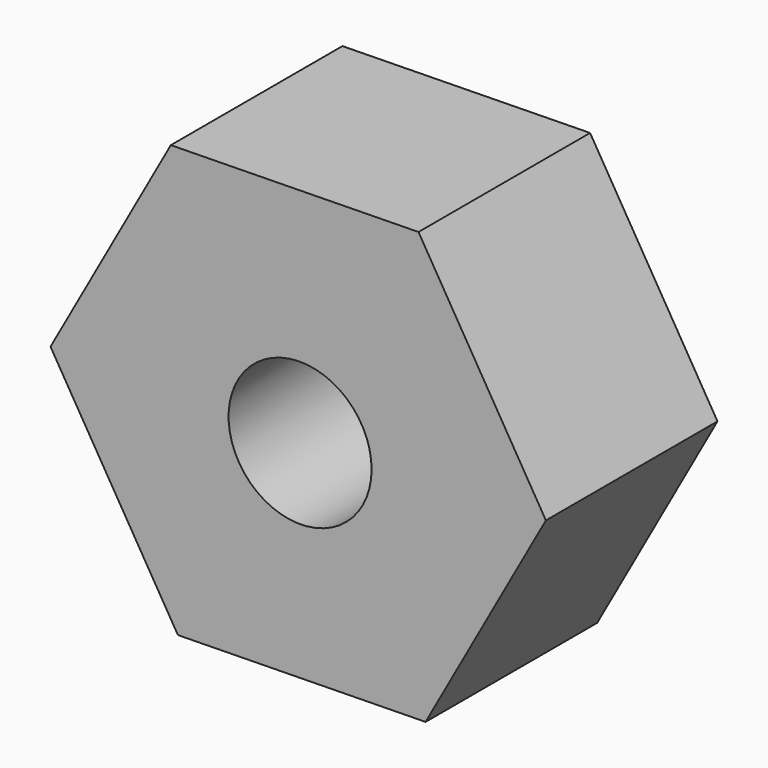
from build123d import *

# Parameters (mm, degrees)
F2_DEPTH = 4.7625
F1_R     = 1.5875
F3_DEPTH = 4.7752


with BuildPart() as f2:
    # F0 (on Front) → F2 (new body)
    with BuildSketch(Plane.XZ):
        Polygon((-4.222844, 8.699483), (-1.551803, 13.507357), (-4.380023, 18.224483), (-9.879285, 18.133736), (-12.550326, 13.325862), (-9.722106, 8.608736), align=None)
    extrude(amount=F2_DEPTH)

    # F1 (on face) → F3 (cut)
    with BuildSketch(Plane.XZ):
        with Locations((-7.009264, 13.246224)):
            Circle(F1_R)
    extrude(amount=F3_DEPTH, mode=Mode.SUBTRACT)


solid = f2.part
